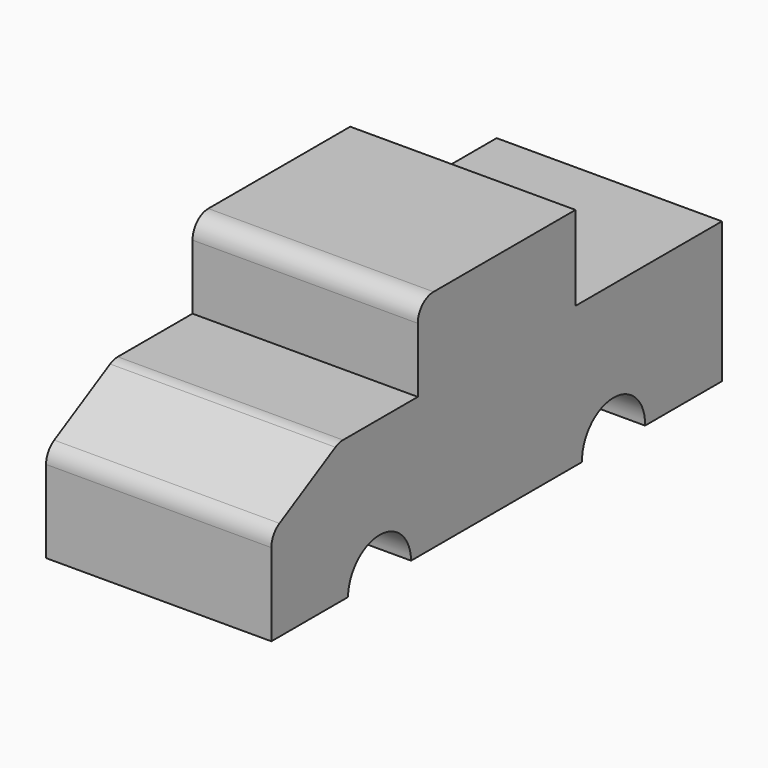
from build123d import *

# Parameters (mm, degrees)
F1_DEPTH = 80
F4_DEPTH = 25
F6_DEPTH = 25
F7_DEPTH = 25
F9_DEPTH = 25
F10_R    = 7


with BuildPart() as f1:
    # F0 (on Right) → F1 (new body)
    with BuildSketch(Plane.YZ):
        Polygon((-73.535658, -7.88837), (-73.535658, -41.313667), (126.464342, -41.313667), (126.464342, 8.686333), (61.464342, 8.686333), (61.464342, 38.686333), (-8.535658, 38.686333), (-8.535658, 8.686333), (-43.535658, 8.686333), align=None)
    extrude(amount=F1_DEPTH)

    # F3 (on face) → F4 (cut)
    with BuildSketch(Plane(origin=(0, 0, 0), x_dir=(0, -1, 0), z_dir=(-1, 0, 0))):
        with BuildLine():
            Line((11.169364, -41.313667), (39.16015, -41.313667))
            ThreePointArc((39.16015, -41.313667), (25.164757, -27.672787), (11.169364, -41.313667))
        make_face()
    extrude(amount=-F4_DEPTH, mode=Mode.SUBTRACT)

    # F5 (on face) → F6 (cut)
    with BuildSketch(Plane(origin=(0, 0, 0), x_dir=(0, -1, 0), z_dir=(-1, 0, 0))):
        with BuildLine():
            Line((-85.647489, -41.313667), (-57.647489, -41.313667))
            ThreePointArc((-57.647489, -41.313667), (-71.647489, -27.313667), (-85.647489, -41.313667))
        make_face()
    extrude(amount=-F6_DEPTH, mode=Mode.SUBTRACT)

    # F2 (on face) → F7 (cut)
    with BuildSketch(Plane.YZ.offset(80)):
        with BuildLine():
            Line((-39.514016, -41.313667), (-11.518752, -41.313667))
            ThreePointArc((-11.518752, -41.313667), (-25.516384, -27.571131), (-39.514016, -41.313667))
        make_face()
    extrude(amount=-F7_DEPTH, mode=Mode.SUBTRACT)

    # F8 (on face) → F9 (cut)
    with BuildSketch(Plane.YZ.offset(80)):
        with BuildLine():
            Line((64.363025, -41.313667), (92.349545, -41.313667))
            ThreePointArc((92.349545, -41.313667), (78.356285, -26.879303), (64.363025, -41.313667))
        make_face()
    extrude(amount=-F9_DEPTH, mode=Mode.SUBTRACT)

    # F10
    f10_edges = [f1.edges().sort_by_distance(p)[0] for p in [
        (40, -8.535658, 38.686333),
        (40, -73.535658, -7.88837),
        (40, -43.535658, 8.686333),
    ]]
    fillet(f10_edges, radius=F10_R)


solid = f1.part
